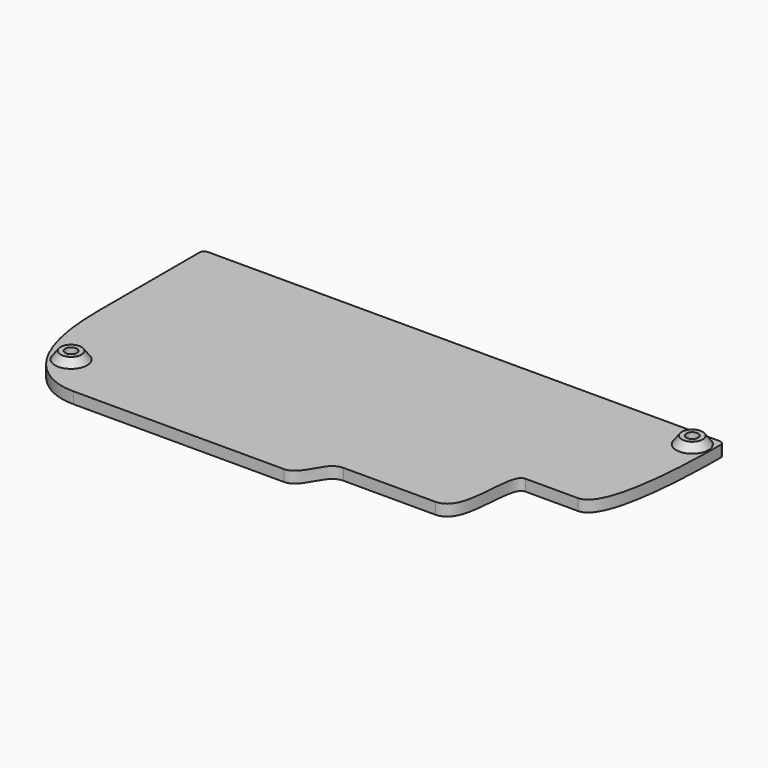
from build123d import *

# Parameters (mm, degrees)
PAD_DEPTH     = 3
SKETCH002_R   = 2.75
PAD002_DEPTH  = 2
CHAMFER_SIZE2 = 1.99
CHAMFER_SIZE  = 1.5
SKETCH005_R   = 1.55
POCKET_DEPTH  = 5


with BuildPart() as part:
    # Sketch → Pad (new body)
    with BuildSketch(Plane.XY):
        with BuildLine():
            Line((0, 64.75), (0, 31.219))
            add(Edge.make_bspline(
                [(0, 31.219), (0, 0), (16.1875, 0), (18.5, 0)],
                knots=[0, 0, 0, 0, 1, 1, 1, 1], degree=3))
            Line((18.5, 0), (74, 0))
            add(Edge.make_bspline(
                [(74, 0), (78.625, 0), (78.625, 8.09375), (83.25, 8.09375)],
                knots=[0, 0, 0, 0, 1, 1, 1, 1], degree=3))
            Line((83.25, 8.09375), (107.531, 8.09375))
            add(Edge.make_bspline(
                [(107.531, 8.09375), (115.62475, 8.09375), (111.031, 27.74975), (115.656, 27.74975)],
                knots=[0, 0, 0, 0, 1, 1, 1, 1], degree=3))
            Line((115.656, 27.74975), (129.531, 27.74975))
            add(Edge.make_bspline(
                [(129.531, 27.74975), (137.5935, 27.74975), (137.5935, 60.125), (137.5935, 64.75)],
                knots=[0, 0, 0, 0, 1, 1, 1, 1], degree=3))
            ThreePointArc((137.5935, 64.75), (137.254842, 65.567592), (136.43725, 65.90625))
            Line((136.43725, 65.90625), (1.15625, 65.90625))
            ThreePointArc((1.15625, 65.90625), (0.338658, 65.567592), (0, 64.75))
        make_face()
    extrude(amount=PAD_DEPTH)

    # Sketch002 (on Face13 of Pad) → Pad002 (join)
    with BuildSketch(Plane.XY.offset(3)):
        with Locations((9.15, 10.831)):
            Circle(SKETCH002_R)
        with Locations((132.869, 61.281)):
            Circle(SKETCH002_R)
    extrude(amount=PAD002_DEPTH)

    # Chamfer
    chamfer_edges = [part.edges().sort_by_distance(p)[0] for p in [
        (6.4, 10.831, 3),
        (130.119, 61.281, 3),
    ]]
    chamfer_side = part.faces().sort_by_distance((63.310609, 35.968212, 3))[0]
    chamfer(chamfer_edges, length=CHAMFER_SIZE, length2=CHAMFER_SIZE2, reference=chamfer_side)

    # Sketch005 (on Face18 of Chamfer) → Pocket (cut)
    with BuildSketch(Plane.XY.offset(5)):
        with Locations((9.15, 10.831)):
            Circle(SKETCH005_R)
        with Locations((132.869, 61.281)):
            Circle(SKETCH005_R)
    extrude(amount=-POCKET_DEPTH, mode=Mode.SUBTRACT)


solid = part.part
